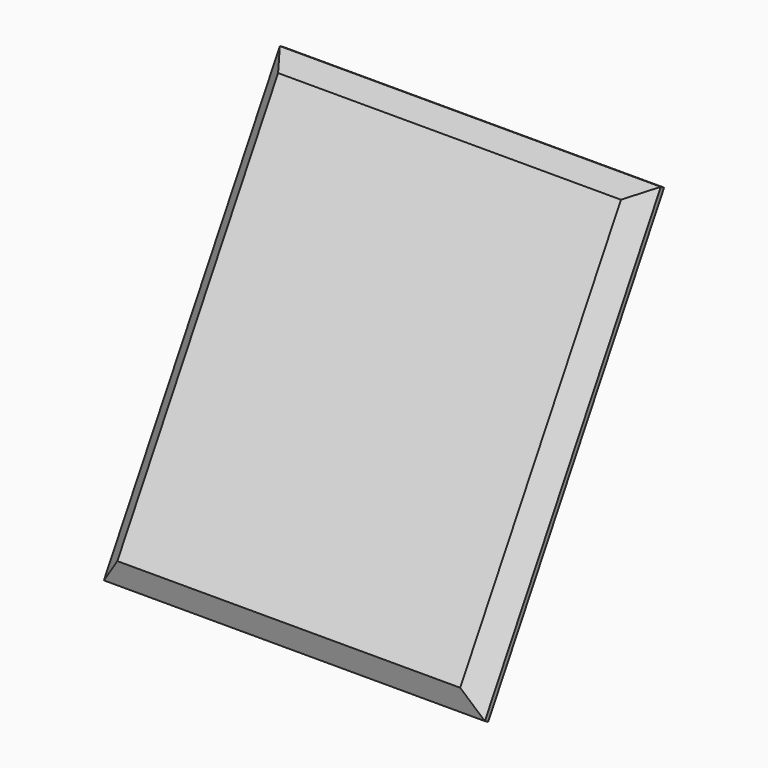
from build123d import *

# Parameters (mm, degrees)
F1_DEPTH = 101.6
F2_SIZE  = 5.08


with BuildPart() as f1:
    # F0 (on Right) → F1 (new body)
    with BuildSketch(Plane.YZ):
        Polygon((5.499261, 98.425), (0, 101.6), (-58.658787, 0), (-53.159526, -3.175), align=None)
    extrude(amount=F1_DEPTH)

    # F2
    f2_edges = [f1.edges().sort_by_distance(p)[0] for p in [
        (50.8, 0, 101.6),
        (50.8, -58.658787, 0),
        (0, -29.329394, 50.8),
        (101.6, -29.329394, 50.8),
    ]]
    chamfer(f2_edges, length=F2_SIZE)


solid = f1.part
